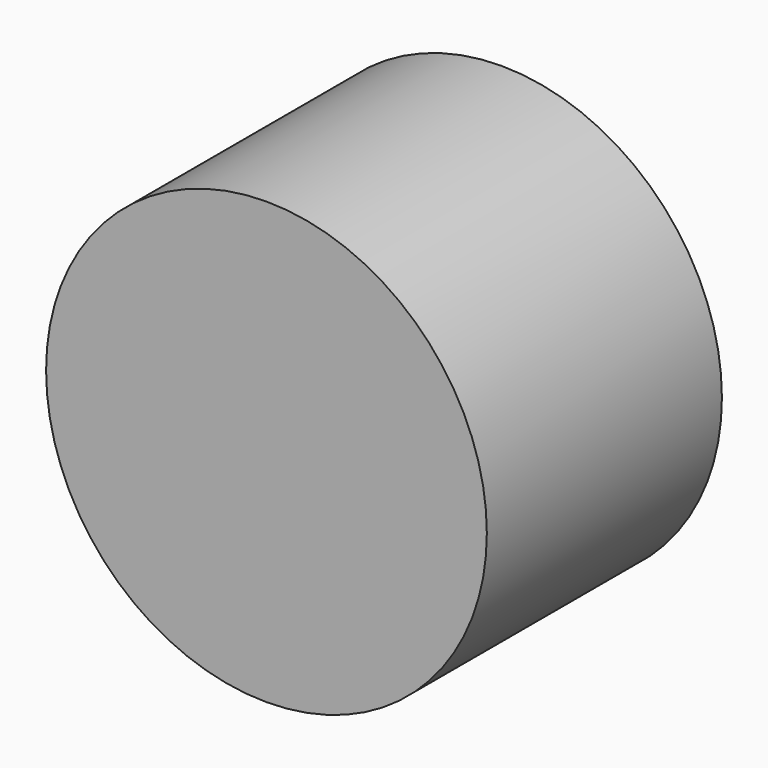
from build123d import *

# Parameters (mm, degrees)
F1_R     = 300
F2_DEPTH = 400


with BuildPart() as f2:
    # F1 (on face) → F2 (new body)
    with BuildSketch(Plane.XZ):
        Circle(F1_R)
    extrude(amount=F2_DEPTH)


solid = f2.part
